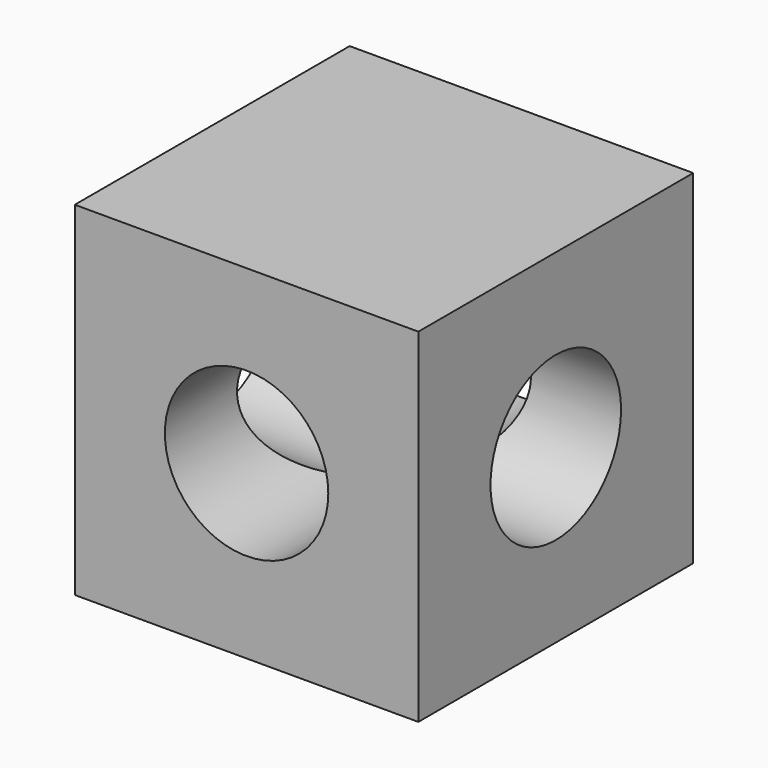
from build123d import *

# Parameters (mm, degrees)
F0_W     = 40.64
F0_H     = 40.64
F0_R     = 9.665554
F1_DEPTH = 40.64
F2_R     = 9.652
F3_DEPTH = 40.641


with BuildPart() as f1:
    # F0 (on Front) → F1 (new body)
    with BuildSketch(Plane.XZ):
        with Locations((-20.32, 20.32)):
            Rectangle(F0_W, F0_H)
        with Locations((-20.32, 20.32)):
            Circle(F0_R, mode=Mode.SUBTRACT)
    extrude(amount=F1_DEPTH)

    # F2 (on face) → F3 (cut, through all)
    with BuildSketch(Plane.YZ):
        with Locations((-20.32, 20.32)):
            Circle(F2_R)
    extrude(amount=-F3_DEPTH, mode=Mode.SUBTRACT)


solid = f1.part
